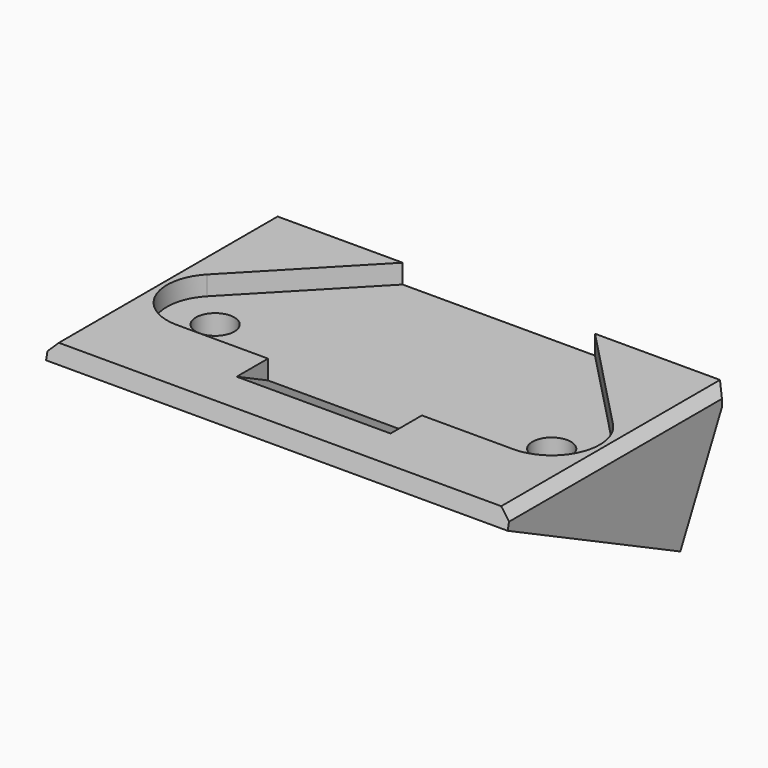
from build123d import *

# Parameters (mm, degrees)
SKETCH_W        = 48
SKETCH_H        = 48
PAD_DEPTH       = 20
POCKET_DEPTH    = 2
POCKET001_DEPTH = 48.001
SKETCH003_R     = 2
POCKET002_DEPTH = 11.221735
CHAMFER_SIZE    = 1
CHAMFER001_SIZE = 4
POCKET003_DEPTH = 16


with BuildPart() as part:
    # Sketch → Pad (new body)
    with BuildSketch(Plane.XY):
        Rectangle(SKETCH_W, SKETCH_H)
    extrude(amount=PAD_DEPTH)

    # Sketch001 (on Face6 of Pad) → Pocket (cut)
    with BuildSketch(Plane.XY.offset(20)):
        with BuildLine():
            Line((-10, 24), (10, 24))
            Line((10, 24), (21.102083, 12.467708))
            ThreePointArc((17.5, 4), (22.101008, 7.042775), (21.102083, 12.467708))
            Line((-17.5, 4), (17.5, 4))
            ThreePointArc((-21.102083, 12.467708), (-22.101008, 7.042775), (-17.5, 4))
            Line((-10, 24), (-21.102083, 12.467708))
        make_face()
    extrude(amount=-POCKET_DEPTH, mode=Mode.SUBTRACT)

    # Sketch002 (on Face9 of Pocket) → Pocket001 (cut, through all)
    with BuildSketch(Plane.YZ.offset(24)):
        Polygon((-8.438403, 20), (18.49136, 6.779265), (24, 18), (24, 0), (-24, 0), (-24, 20), align=None)
    extrude(amount=-POCKET001_DEPTH, mode=Mode.SUBTRACT)

    # Sketch003 (on Face8 of Pocket001) → Pocket002 (cut, through all)
    with BuildSketch(Plane.XY.offset(18)):
        with Locations((-17.5, 9)):
            Circle(SKETCH003_R)
        with Locations((17.5, 9)):
            Circle(SKETCH003_R)
    extrude(amount=-POCKET002_DEPTH, mode=Mode.SUBTRACT)

    # Chamfer
    chamfer_edges = [part.edges().sort_by_distance(p)[0] for p in [
        (24, 7.780798, 20),
        (24, 24, 19),
        (24, 21.24568, 12.389633),
        (-24, 21.24568, 12.389633),
        (-24, 24, 19),
        (-24, 7.780798, 20),
    ]]
    chamfer(chamfer_edges, length=CHAMFER_SIZE)

    # Chamfer001
    chamfer001_edges = [part.edges().sort_by_distance(p)[0] for p in [
        (0, -8.438403, 20),
    ]]
    chamfer(chamfer001_edges, length=CHAMFER001_SIZE)

    # Sketch004 (on Face7 of Chamfer001) → Pocket003 (cut)
    with BuildSketch(Plane.YZ.offset(8)):
        Polygon((4, 18), (-0.073868, 20), (4, 20), align=None)
    extrude(amount=-POCKET003_DEPTH, mode=Mode.SUBTRACT)


solid = part.part
